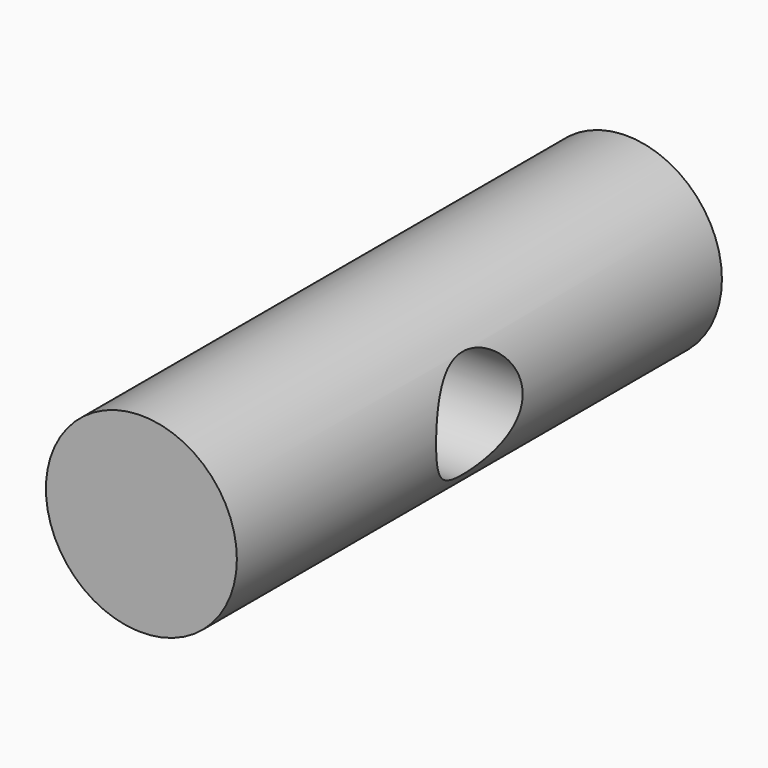
from build123d import *

# Parameters (mm, degrees)
SKETCH_R    = 6
PAD_DEPTH   = 19.05
SKETCH001_R = 3.4
HOLE_DEPTH  = 23.001


with BuildPart() as part:
    # Sketch → Pad (new body, symmetric)
    with BuildSketch(Plane.XZ):
        Circle(SKETCH_R)
    extrude(amount=PAD_DEPTH, both=True)

    # Sketch001 → Hole (cut, through all)
    with BuildSketch(Plane.YZ.offset(17)):
        Circle(SKETCH001_R)
    extrude(amount=-HOLE_DEPTH, mode=Mode.SUBTRACT)


solid = part.part
